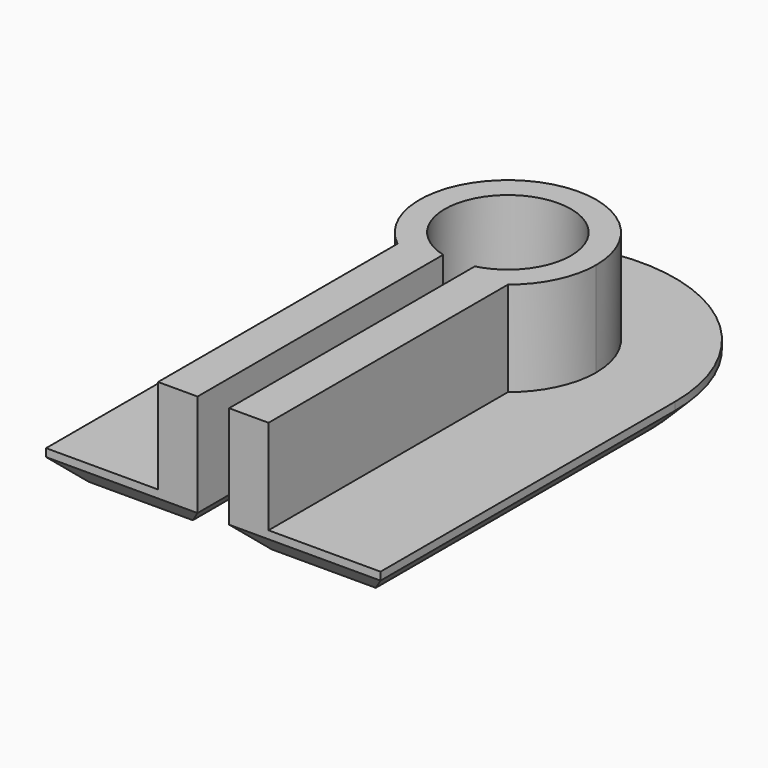
from build123d import *

# Parameters (mm, degrees)
F1_DEPTH = 2
F2_DEPTH = 8
F3_SIZE  = 1.5


with BuildPart() as f1:
    # F0 (on Top) → F1 (new body)
    with BuildSketch(Plane.XY):
        with BuildLine():
            Line((-3.5, -23.3402318112), (-3.5, -10.0054984883))
            ThreePointArc((-3.5, -10.0054984883), (-8.6446515257, -6.1343296292), (-10.6, 0))
            Line((-10.6, 0), (-10.6, -23.3402318112))
            Line((-10.6, -23.3402318112), (-3.5, -23.3402318112))
        make_face()
        with BuildLine():
            ThreePointArc((10.6, 0), (8.6446515257, -6.1343296292), (3.5, -10.0054984883))
            Line((3.5, -10.0054984883), (3.5, -23.3402318112))
            Line((3.5, -23.3402318112), (10.6, -23.3402318112))
            Line((10.6, -23.3402318112), (10.6, 0))
        make_face()
        with BuildLine():
            Line((3.5, -23.3402318112), (3.5, -10.0054984883))
            ThreePointArc((3.5, -10.0054984883), (2.2665754234, -10.3548363507), (1, -10.5527247666))
            Line((1, -10.5527247666), (1, -23.3402318112))
            Line((1, -23.3402318112), (3.5, -23.3402318112))
        make_face()
        with BuildLine():
            ThreePointArc((-1, -10.5527247666), (-2.2665754234, -10.3548363507), (-3.5, -10.0054984883))
            Line((-3.5, -10.0054984883), (-3.5, -23.3402318112))
            Line((-3.5, -23.3402318112), (-1, -23.3402318112))
            Line((-1, -23.3402318112), (-1, -10.5527247666))
        make_face()
        with BuildLine():
            ThreePointArc((-1, -5.5099909256), (-2.3208923272, -5.0964162708), (-3.5, -4.3714985989))
            Line((-3.5, -4.3714985989), (-3.5, -10.0054984883))
            ThreePointArc((-3.5, -10.0054984883), (-2.2665754234, -10.3548363507), (-1, -10.5527247666))
            Line((-1, -10.5527247666), (-1, -5.5099909256))
        make_face()
        with BuildLine():
            Line((-3.5, -10.0054984883), (-3.5, -4.3714985989))
            ThreePointArc((-3.5, -4.3714985989), (-2.4248711306, 5.0477717856), (5.6, 0))
            ThreePointArc((5.6, 0), (5.0477717856, -2.4248711306), (3.5, -4.3714985989))
            Line((3.5, -4.3714985989), (3.5, -10.0054984883))
            ThreePointArc((3.5, -10.0054984883), (8.6446515257, -6.1343296292), (10.6, 0))
            ThreePointArc((10.6, 0), (0, 10.6), (-10.6, 0))
            ThreePointArc((-10.6, 0), (-8.6446515257, -6.1343296292), (-3.5, -10.0054984883))
        make_face()
        with BuildLine():
            ThreePointArc((-3.5, -1.9364916731), (-1, 3.8729833462), (4, 0))
            ThreePointArc((4, 0), (3.8729833462, -1), (3.5, -1.9364916731))
            Line((3.5, -1.9364916731), (3.5, -4.3714985989))
            ThreePointArc((3.5, -4.3714985989), (5.0477717856, -2.4248711306), (5.6, 0))
            ThreePointArc((5.6, 0), (-2.4248711306, 5.0477717856), (-3.5, -4.3714985989))
            Line((-3.5, -4.3714985989), (-3.5, -1.9364916731))
        make_face()
        with BuildLine():
            Line((3.5, -10.0054984883), (3.5, -4.3714985989))
            ThreePointArc((3.5, -4.3714985989), (2.3208923272, -5.0964162708), (1, -5.5099909256))
            Line((1, -5.5099909256), (1, -10.5527247666))
            ThreePointArc((1, -10.5527247666), (2.2665754234, -10.3548363507), (3.5, -10.0054984883))
        make_face()
        with BuildLine():
            Line((3.5, -4.3714985989), (3.5, -1.9364916731))
            ThreePointArc((3.5, -1.9364916731), (2.4494897428, -3.1622776602), (1, -3.8729833462))
            Line((1, -3.8729833462), (1, -5.5099909256))
            ThreePointArc((1, -5.5099909256), (2.3208923272, -5.0964162708), (3.5, -4.3714985989))
        make_face()
        with BuildLine():
            ThreePointArc((-1, -3.8729833462), (-2.4494897428, -3.1622776602), (-3.5, -1.9364916731))
            Line((-3.5, -1.9364916731), (-3.5, -4.3714985989))
            ThreePointArc((-3.5, -4.3714985989), (-2.3208923272, -5.0964162708), (-1, -5.5099909256))
            Line((-1, -5.5099909256), (-1, -3.8729833462))
        make_face()
    extrude(amount=F1_DEPTH)

    # F0 (on Top) → F2 (join)
    with BuildSketch(Plane.XY):
        with BuildLine():
            ThreePointArc((-3.5, -1.9364916731), (-1, 3.8729833462), (4, 0))
            ThreePointArc((4, 0), (3.8729833462, -1), (3.5, -1.9364916731))
            Line((3.5, -1.9364916731), (3.5, -4.3714985989))
            ThreePointArc((3.5, -4.3714985989), (5.0477717856, -2.4248711306), (5.6, 0))
            ThreePointArc((5.6, 0), (-2.4248711306, 5.0477717856), (-3.5, -4.3714985989))
            Line((-3.5, -4.3714985989), (-3.5, -1.9364916731))
        make_face()
        with BuildLine():
            ThreePointArc((-1, -5.5099909256), (-2.3208923272, -5.0964162708), (-3.5, -4.3714985989))
            Line((-3.5, -4.3714985989), (-3.5, -10.0054984883))
            ThreePointArc((-3.5, -10.0054984883), (-2.2665754234, -10.3548363507), (-1, -10.5527247666))
            Line((-1, -10.5527247666), (-1, -5.5099909256))
        make_face()
        with BuildLine():
            ThreePointArc((-1, -10.5527247666), (-2.2665754234, -10.3548363507), (-3.5, -10.0054984883))
            Line((-3.5, -10.0054984883), (-3.5, -23.3402318112))
            Line((-3.5, -23.3402318112), (-1, -23.3402318112))
            Line((-1, -23.3402318112), (-1, -10.5527247666))
        make_face()
        with BuildLine():
            Line((3.5, -23.3402318112), (3.5, -10.0054984883))
            ThreePointArc((3.5, -10.0054984883), (2.2665754234, -10.3548363507), (1, -10.5527247666))
            Line((1, -10.5527247666), (1, -23.3402318112))
            Line((1, -23.3402318112), (3.5, -23.3402318112))
        make_face()
        with BuildLine():
            Line((3.5, -10.0054984883), (3.5, -4.3714985989))
            ThreePointArc((3.5, -4.3714985989), (2.3208923272, -5.0964162708), (1, -5.5099909256))
            Line((1, -5.5099909256), (1, -10.5527247666))
            ThreePointArc((1, -10.5527247666), (2.2665754234, -10.3548363507), (3.5, -10.0054984883))
        make_face()
        with BuildLine():
            Line((3.5, -4.3714985989), (3.5, -1.9364916731))
            ThreePointArc((3.5, -1.9364916731), (2.4494897428, -3.1622776602), (1, -3.8729833462))
            Line((1, -3.8729833462), (1, -5.5099909256))
            ThreePointArc((1, -5.5099909256), (2.3208923272, -5.0964162708), (3.5, -4.3714985989))
        make_face()
        with BuildLine():
            ThreePointArc((-1, -3.8729833462), (-2.4494897428, -3.1622776602), (-3.5, -1.9364916731))
            Line((-3.5, -1.9364916731), (-3.5, -4.3714985989))
            ThreePointArc((-3.5, -4.3714985989), (-2.3208923272, -5.0964162708), (-1, -5.5099909256))
            Line((-1, -5.5099909256), (-1, -3.8729833462))
        make_face()
    extrude(amount=F2_DEPTH)

    # F3
    f3_edges = [f1.edges().sort_by_distance(p)[0] for p in [
        (0, 10.6, 0),
        (-10.6, -11.670116, 0),
        (-5.8, -23.340232, 0),
        (-1, -13.606608, 0),
        (0, 4, 0),
        (1, -13.606608, 0),
        (5.8, -23.340232, 0),
        (10.6, -11.670116, 0),
    ]]
    chamfer(f3_edges, length=F3_SIZE)


solid = f1.part
